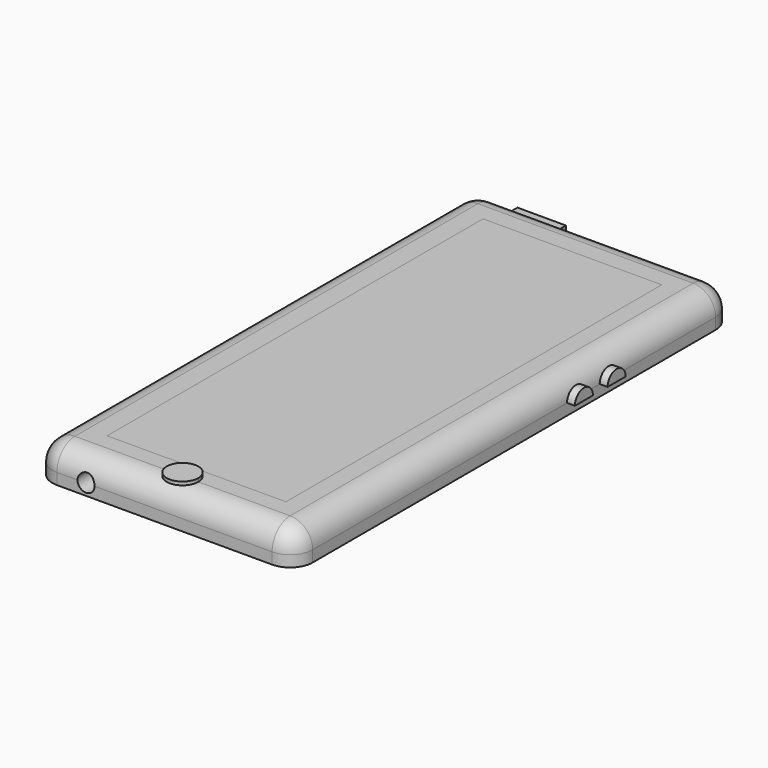
from build123d import *

# Parameters (mm, degrees)
F0_W      = 58.674
F0_H      = 123.698
F1_DEPTH  = 7.62
F2_R      = 5.08
F3_R      = 5.08
F4_R      = 5.08
F5_R      = 5.08
F6_W      = 40.2928031981
F6_H      = 105.9125214815
F7_DEPTH  = 1.27
F8_W      = 40.2928031981
F8_H      = 105.9125214815
F9_DEPTH  = 1.27
F13_DEPTH = 1.778
F12_W     = 10.936614126
F12_H     = 2.6405032417
F14_DEPTH = 1.778
F16_DEPTH = 1.778
F17_DEPTH = 0.762
F19_DEPTH = 0.508
F21_DEPTH = 0.508
F23_DEPTH = 25.4


with BuildPart() as f1:
    # F0 (on Top) → F1 (new body)
    with BuildSketch(Plane.XY):
        with Locations((-35.0177383424, 9.0399411573)):
            Rectangle(F0_W, F0_H)
    extrude(amount=F1_DEPTH)

    # F2
    f2_edges = [f1.edges().sort_by_distance(p)[0] for p in [
        (-64.354738, 9.039941, 7.62),
    ]]
    fillet(f2_edges, radius=F2_R)

    # F3
    f3_edges = [f1.edges().sort_by_distance(p)[0] for p in [
        (-32.477738, 70.888941, 7.62),
    ]]
    fillet(f3_edges, radius=F3_R)

    # F4
    f4_edges = [f1.edges().sort_by_distance(p)[0] for p in [
        (-5.680738, 6.499941, 7.62),
    ]]
    fillet(f4_edges, radius=F4_R)

    # F5
    f5_edges = [f1.edges().sort_by_distance(p)[0] for p in [
        (-35.017738, -52.809059, 7.62),
    ]]
    fillet(f5_edges, radius=F5_R)

    # F6 (on face) → F7 (cut)
    with BuildSketch(Plane.XY.offset(7.62)):
        with Locations((-34.8244961351, 8.9219771326)):
            Rectangle(F6_W, F6_H)
    extrude(amount=-F7_DEPTH, mode=Mode.SUBTRACT)

    # F15 (on face) → F17 (join)
    with BuildSketch(Plane.XY.offset(7.62)):
        with BuildLine():
            ThreePointArc((-38.5811812844, -47.7290588427), (-35.0177383424, -51.2925017847), (-31.4542954004, -47.7290588427))
            Line((-31.4542954004, -47.7290588427), (-38.5811812844, -47.7290588427))
        make_face()
        with BuildLine():
            Line((-38.5811812844, -47.7290588427), (-31.4542954004, -47.7290588427))
            ThreePointArc((-31.4542954004, -47.7290588427), (-35.0177383424, -44.1656159008), (-38.5811812844, -47.7290588427))
        make_face()
    extrude(amount=F17_DEPTH)

    # F18 (on face) → F19 (join)
    with BuildSketch(Plane(origin=(0, 0, 0), x_dir=(1, 0, 0), z_dir=(0, 0, -1))):
        with BuildLine():
            add(Edge.make_bspline(
                [(-47.4022328854, -32.6668061316), (-47.4039454411, -31.2855552534), (-40.4425272484, -29.6151679359), (-39.9021285325, -20.7658551572), (-52.9334982886, -18.9159938423), (-39.8436082704, -2.0710260589), (-34.1084299608, -19.8718751113), (-26.3908858564, -1.9511775764), (-14.9153701039, -24.0937892291), (-24.0258697055, -40.8267238563), (-33.1529012898, -34.1829091107), (-38.6908181577, -38.5205402908), (-47.4002677908, -34.2517405467), (-47.4022328854, -32.6668061316)],
                knots=[0, 0, 0, 0, 0.076676808, 0.1508477257, 0.2370022983, 0.3376566061, 0.4280341834, 0.5164032829, 0.6378774884, 0.7536098802, 0.8356764376, 0.9120161922, 1, 1, 1, 1], degree=3))
        make_face()
    extrude(amount=F19_DEPTH)

    # F22 (on face) → F23 (cut)
    with BuildSketch(Plane.XZ.offset(52.8090588427)):
        with BuildLine():
            Line((-54.626502028, 2.54), (-50.7910103292, 2.54))
            ThreePointArc((-50.7910103292, 2.54), (-52.7087561786, 4.4577458494), (-54.626502028, 2.54))
        make_face()
        with BuildLine():
            ThreePointArc((-54.626502028, 2.54), (-52.7087561786, 0.6222541506), (-50.7910103292, 2.54))
            Line((-50.7910103292, 2.54), (-54.626502028, 2.54))
        make_face()
    extrude(amount=-F23_DEPTH, mode=Mode.SUBTRACT)


with BuildPart() as f9:
    # F8 (on face) → F9 (new body)
    with BuildSketch(Plane.XY.offset(6.35)):
        with Locations((-34.8244961351, 8.9219771326)):
            Rectangle(F8_W, F8_H)
    extrude(amount=F9_DEPTH)


with BuildPart() as f13:
    # F11 (on face) → F13 (new body)
    with BuildSketch(Plane.YZ.offset(-5.6807383424)):
        with BuildLine():
            Line((23.9381285077, 2.54), (29.0181285077, 2.54))
            ThreePointArc((29.0181285077, 2.54), (26.4781285077, 5.08), (23.9381285077, 2.54))
        make_face()
    extrude(amount=F13_DEPTH)


with BuildPart() as f14:
    # F12 (on face) → F14 (new body)
    with BuildSketch(Plane(origin=(0, 70.8889411573, 0), x_dir=(-1, 0, 0), z_dir=(0, 1, 0))):
        with Locations((50.3660049289, 3.8602516209)):
            Rectangle(F12_W, F12_H)
    extrude(amount=F14_DEPTH)


with BuildPart() as f16:
    # F10 (on face) → F16 (new body)
    with BuildSketch(Plane.YZ.offset(-5.6807383424)):
        with BuildLine():
            Line((33.1479159808, 2.54), (38.2279159808, 2.54))
            ThreePointArc((38.2279159808, 2.54), (35.6879159808, 5.08), (33.1479159808, 2.54))
        make_face()
    extrude(amount=F16_DEPTH)


with BuildPart() as f21:
    # F20 (on face) → F21 (new body)
    with BuildSketch(Plane(origin=(0, 0, -0.508), x_dir=(1, 0, 0), z_dir=(0, 0, -1))):
        with BuildLine():
            add(Edge.make_bspline(
                [(-36.2964496017, -41.188582778), (-37.6547848521, -40.5684336535), (-42.0076645606, -44.5532276834), (-42.4530510913, -52.6559515619), (-33.9225672026, -48.7870567461), (-34.8730055186, -41.8384573959), (-36.2964496017, -41.188582778)],
                knots=[0, 0, 0, 0, 0.2489655368, 0.4899667149, 0.7391008442, 1, 1, 1, 1], degree=3))
        make_face()
    extrude(amount=F21_DEPTH)


solid = Compound([f1.part, f9.part, f13.part, f14.part, f16.part, f21.part])
